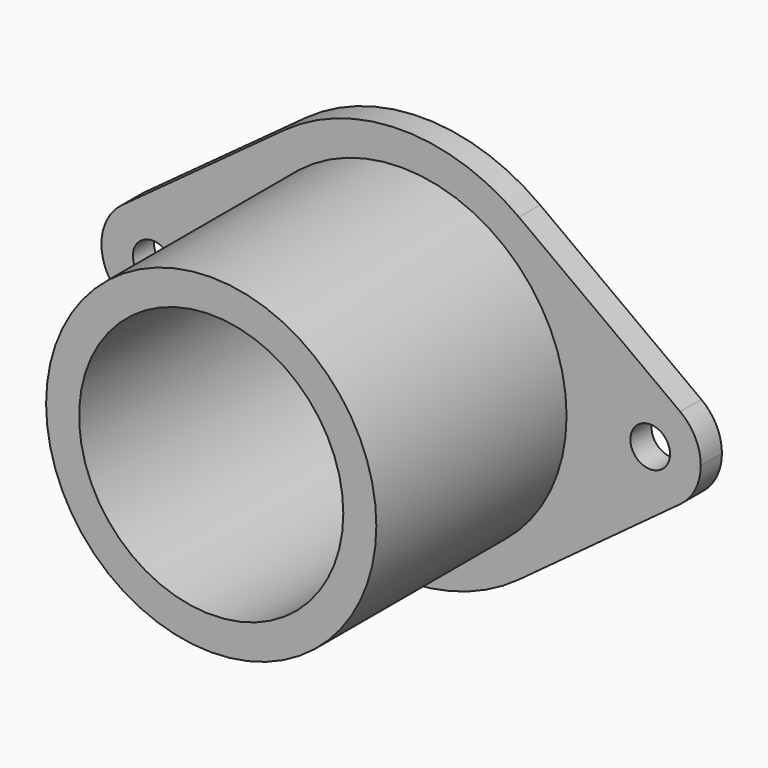
from build123d import *

# Parameters (mm, degrees)
F0_R     = 3.81
F0_R_2   = 31.75
F0_R_3   = 25.4
F1_DEPTH = 5.08
F2_R     = 31.75
F2_R_2   = 25.4
F3_DEPTH = 45.72


with BuildPart() as f1:
    # F0 (on Front) → F1 (new body)
    with BuildSketch(Plane.XZ):
        with BuildLine():
            Line((-22.499841, 30.746824), (-53.648159, 7.953178))
            ThreePointArc((-53.648159, 7.953178), (-57.6834, 0), (-53.648159, -7.953178))
            Line((-53.648159, -7.953178), (-22.499841, -30.746824))
            ThreePointArc((-22.499841, -30.746824), (0.062757, -38.099948), (22.601009, -30.672535))
            Line((22.601009, -30.672535), (53.598991, -7.831721))
            ThreePointArc((53.598991, -7.831721), (38.1, 0), (53.598991, 7.831721))
            Line((53.598991, 7.831721), (22.601009, 30.672535))
            ThreePointArc((22.601009, 30.672535), (0.062757, 38.099948), (-22.499841, 30.746824))
        make_face()
        with Locations((-47.8282, 0)):
            Circle(F0_R, mode=Mode.SUBTRACT)
        Circle(F0_R_2, mode=Mode.SUBTRACT)
        Circle(F0_R_2)
        Circle(F0_R_3, mode=Mode.SUBTRACT)
        with BuildLine():
            ThreePointArc((57.5564, 0), (56.510863, 4.387395), (53.598991, 7.831721))
            ThreePointArc((53.598991, 7.831721), (38.1, 0), (53.598991, -7.831721))
            ThreePointArc((53.598991, -7.831721), (56.510863, -4.387395), (57.5564, 0))
        make_face()
        with Locations((47.8282, 0)):
            Circle(F0_R, mode=Mode.SUBTRACT)
    extrude(amount=F1_DEPTH)

    # F2 (on face) → F3 (join)
    with BuildSketch(Plane.XZ.offset(5.08)):
        Circle(F2_R)
        Circle(F2_R_2, mode=Mode.SUBTRACT)
    extrude(amount=F3_DEPTH)


solid = f1.part
